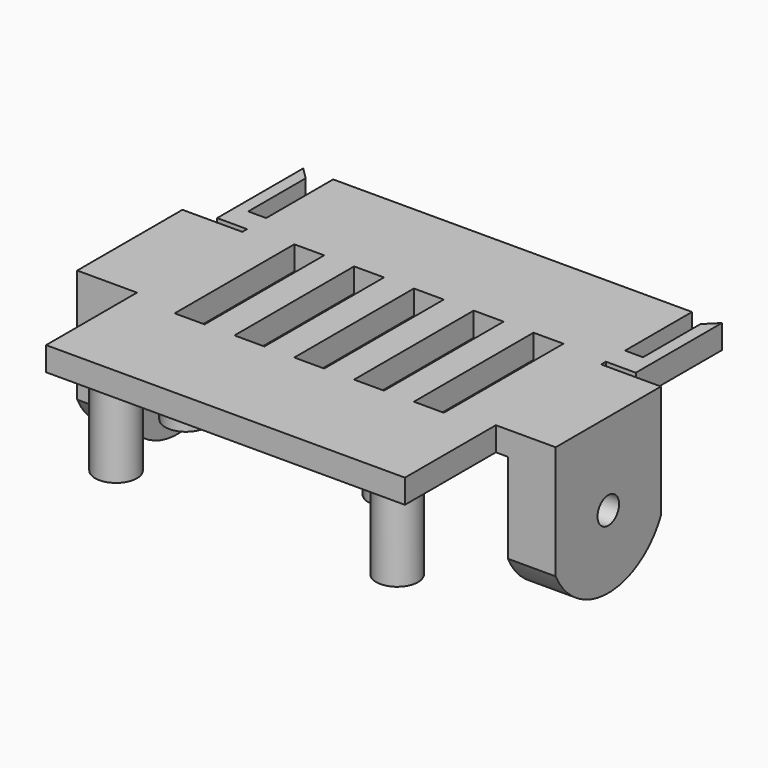
from build123d import *

# Parameters (mm, degrees)
SKETCH_W             = 60
SKETCH_H             = 60
PAD_DEPTH            = 4
SKETCH001_R          = 3.5
SKETCH001_R_2        = 1.25
PAD001_DEPTH         = 8
SKETCH009_W          = 5
SKETCH009_H          = 25
POCKET008_DEPTH      = 4
PAD006_DEPTH         = 4
SKETCH015_W          = 22
SKETCH015_H          = 4
PAD007_DEPTH         = 2
SKETCH003_R          = 2.25
PAD008_DEPTH         = 8
SKETCH014_R          = 3.5
SKETCH014_R_2        = 1.25
PAD009_DEPTH         = 15
POCKET_DEPTH         = 4
BODY_PLACEMENT_ANGLE = 180


with BuildPart() as part:
    # Sketch → Pad (new body)
    with BuildSketch(Plane.XY):
        Rectangle(SKETCH_W, SKETCH_H)
    extrude(amount=PAD_DEPTH)

    # Sketch001 (on Face6 of Pad) → Pad001 (join)
    with BuildSketch(Plane.XY.offset(4)):
        with Locations((-17, 17)):
            Circle(SKETCH001_R)
        with Locations((-17, 17)):
            Circle(SKETCH001_R_2, mode=Mode.SUBTRACT)
        with Locations((-17, -17)):
            Circle(SKETCH001_R)
        with Locations((-17, -17)):
            Circle(SKETCH001_R_2, mode=Mode.SUBTRACT)
        with Locations((17, -17)):
            Circle(SKETCH001_R)
        with Locations((17, -17)):
            Circle(SKETCH001_R_2, mode=Mode.SUBTRACT)
        with Locations((17, 17)):
            Circle(SKETCH001_R)
        with Locations((17, 17)):
            Circle(SKETCH001_R_2, mode=Mode.SUBTRACT)
    extrude(amount=PAD001_DEPTH)

    # Sketch009 → Pocket008 (cut)
    with BuildSketch(Plane(origin=(0, 0, 0), x_dir=(1, 0, 0), z_dir=(0, 0, -1))):
        Rectangle(SKETCH009_W, SKETCH009_H)
        with Locations((10, 0)):
            Rectangle(SKETCH009_W, SKETCH009_H)
        with Locations((20, 0)):
            Rectangle(SKETCH009_W, SKETCH009_H)
        with Locations((-10, 0)):
            Rectangle(SKETCH009_W, SKETCH009_H)
        with Locations((-20, 0)):
            Rectangle(SKETCH009_W, SKETCH009_H)
    extrude(amount=-POCKET008_DEPTH, mode=Mode.SUBTRACT)

    # Sketch012 (on Face5 of Pocket008) → Pad006 (join)
    with BuildSketch(Plane.XY.offset(4)):
        Polygon((-30, -12), (-35, -12), (-35, -30), (-33, -28), (-33, -16), (-30, -16), align=None)
    pad006 = extrude(amount=-PAD006_DEPTH)

    # Mirrored005: Pad006 across Sketch012 V_Axis
    add(pad006.mirror(Plane(origin=(0, 0, 4), x_dir=(0, 0, 1), z_dir=(1, 0, 0))))

    # Sketch015 (on Face4 of Pad) → Pad007 (join)
    with BuildSketch(Plane(origin=(-30, 0, 0), x_dir=(0, -1, 0), z_dir=(-1, 0, 0))):
        with Locations((0, 2)):
            Rectangle(SKETCH015_W, SKETCH015_H)
    pad007 = extrude(amount=PAD007_DEPTH)

    # Sketch003 (on Face42 of Pad007) → Pad008 (join)
    with BuildSketch(Plane(origin=(-32, 0, 0), x_dir=(0, -1, 0), z_dir=(-1, 0, 0))):
        with BuildLine():
            ThreePointArc((11, 19), (0, 25.938622), (-11, 19))
            Line((-11, 19), (-11, 0))
            Line((11, 0), (-11, 0))
            Line((11, 19), (11, 0))
        make_face()
        with Locations((0, 13.75)):
            Circle(SKETCH003_R, mode=Mode.SUBTRACT)
    pad008 = extrude(amount=PAD008_DEPTH)

    # Sketch014 → Pad009 (join)
    with BuildSketch(Plane.XY.offset(4)):
        with Locations((-23.5, 23.5)):
            Circle(SKETCH014_R)
        with Locations((-23.5, 23.5)):
            Circle(SKETCH014_R_2, mode=Mode.SUBTRACT)
        with Locations((23.5, 23.5)):
            Circle(SKETCH014_R)
        with Locations((23.5, 23.5)):
            Circle(SKETCH014_R_2, mode=Mode.SUBTRACT)
        with Locations((23.5, -23.5)):
            Circle(SKETCH014_R)
        with Locations((23.5, -23.5)):
            Circle(SKETCH014_R_2, mode=Mode.SUBTRACT)
        with Locations((-23.5, -23.5)):
            Circle(SKETCH014_R)
        with Locations((-23.5, -23.5)):
            Circle(SKETCH014_R_2, mode=Mode.SUBTRACT)
    extrude(amount=PAD009_DEPTH)

    # Sketch016 (on Face58 of Pad009) → Pocket (cut)
    with BuildSketch(Plane.YZ.offset(-32)):
        Polygon((-3.637307, 15.85), (-3.637307, 11.65), (0, 9.55), (3.637307, 11.65), (3.637307, 15.85), (0, 17.95), align=None)
    pocket = extrude(amount=-POCKET_DEPTH, mode=Mode.SUBTRACT)

    # Mirrored: Pad007, Pad008 across YZ
    add(pad007.mirror(Plane.YZ))
    add(pad008.mirror(Plane.YZ))

    # Mirrored006: Pocket across YZ
    add(pocket.mirror(Plane.YZ), mode=Mode.SUBTRACT)


with BuildPart() as part_1:
    # Body placement: moved
    add(part.part.moved(Location((0, 42, 22.9))).rotate(Axis((0, 42, 22.9), (1, 0, 0)), BODY_PLACEMENT_ANGLE))


solid = part_1.part
